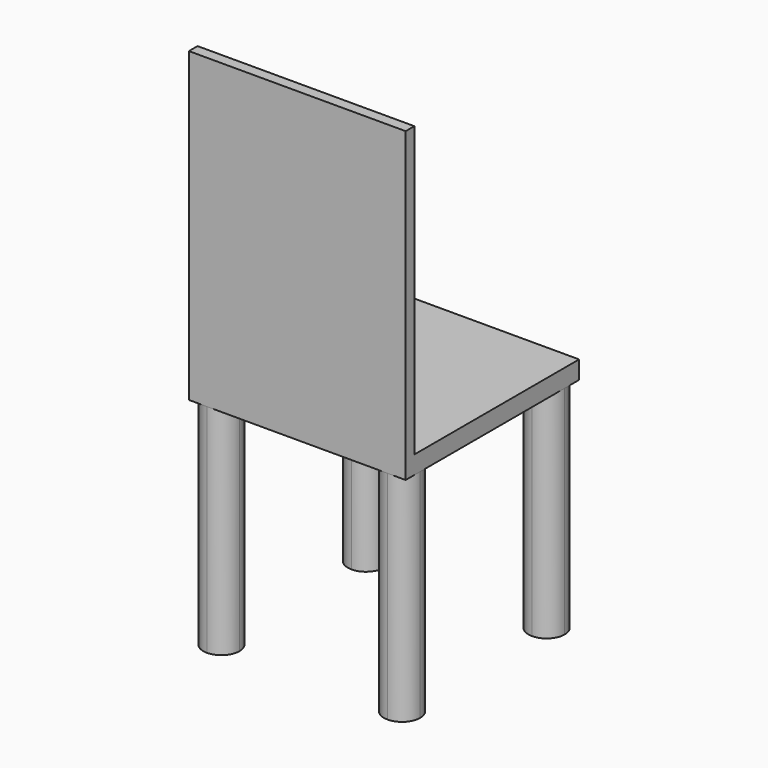
from build123d import *

# Parameters (mm, degrees)
F0_W     = 600
F0_H     = 600
F1_DEPTH = 50
F2_W     = 600
F2_H     = 30
F3_DEPTH = 800
F5_DEPTH = 600


with BuildPart() as f1:
    # F0 (on Top) → F1 (new body)
    with BuildSketch(Plane.XY):
        Rectangle(F0_W, F0_H)
    extrude(amount=F1_DEPTH)

    # F2 (on face) → F3 (join)
    with BuildSketch(Plane.XY.offset(50)):
        with Locations((0, -285)):
            Rectangle(F2_W, F2_H)
    extrude(amount=F3_DEPTH)

    # F4 (on face) → F5 (join)
    with BuildSketch(Plane(origin=(0, 0, 0), x_dir=(1, 0, 0), z_dir=(0, 0, -1))):
        with BuildLine():
            Line((-250, 250), (-200, 250))
            ThreePointArc((-200, 250), (-214.644661, 285.355339), (-250, 300))
            ThreePointArc((-250, 300), (-285.355339, 285.355339), (-300, 250))
            ThreePointArc((-300, 250), (-285.355339, 214.644661), (-250, 200))
            Line((-250, 200), (-250, 250))
        make_face()
        with BuildLine():
            ThreePointArc((-250, 200), (-214.644661, 214.644661), (-200, 250))
            Line((-200, 250), (-250, 250))
            Line((-250, 250), (-250, 200))
        make_face()
        with BuildLine():
            ThreePointArc((250, 300), (214.644661, 285.355339), (200, 250))
            Line((200, 250), (250, 250))
            Line((250, 250), (250, 200))
            ThreePointArc((250, 200), (285.355339, 214.644661), (300, 250))
            ThreePointArc((300, 250), (285.355339, 285.355339), (250, 300))
        make_face()
        with BuildLine():
            ThreePointArc((-200, -250), (-214.644661, -214.644661), (-250, -200))
            Line((-250, -200), (-250, -250))
            Line((-250, -250), (-200, -250))
        make_face()
        with BuildLine():
            Line((-250, -250), (-250, -200))
            ThreePointArc((-250, -200), (-285.355339, -214.644661), (-300, -250))
            ThreePointArc((-300, -250), (-285.355339, -285.355339), (-250, -300))
            ThreePointArc((-250, -300), (-214.644661, -285.355339), (-200, -250))
            Line((-200, -250), (-250, -250))
        make_face()
        with BuildLine():
            Line((250, -250), (250, -200))
            ThreePointArc((250, -200), (214.644661, -214.644661), (200, -250))
            Line((200, -250), (250, -250))
        make_face()
        with BuildLine():
            ThreePointArc((300, -250), (285.355339, -214.644661), (250, -200))
            Line((250, -200), (250, -250))
            Line((250, -250), (200, -250))
            ThreePointArc((200, -250), (214.644661, -285.355339), (250, -300))
            ThreePointArc((250, -300), (285.355339, -285.355339), (300, -250))
        make_face()
        with BuildLine():
            Line((250, 250), (200, 250))
            ThreePointArc((200, 250), (214.644661, 214.644661), (250, 200))
            Line((250, 200), (250, 250))
        make_face()
    extrude(amount=F5_DEPTH)


solid = f1.part
